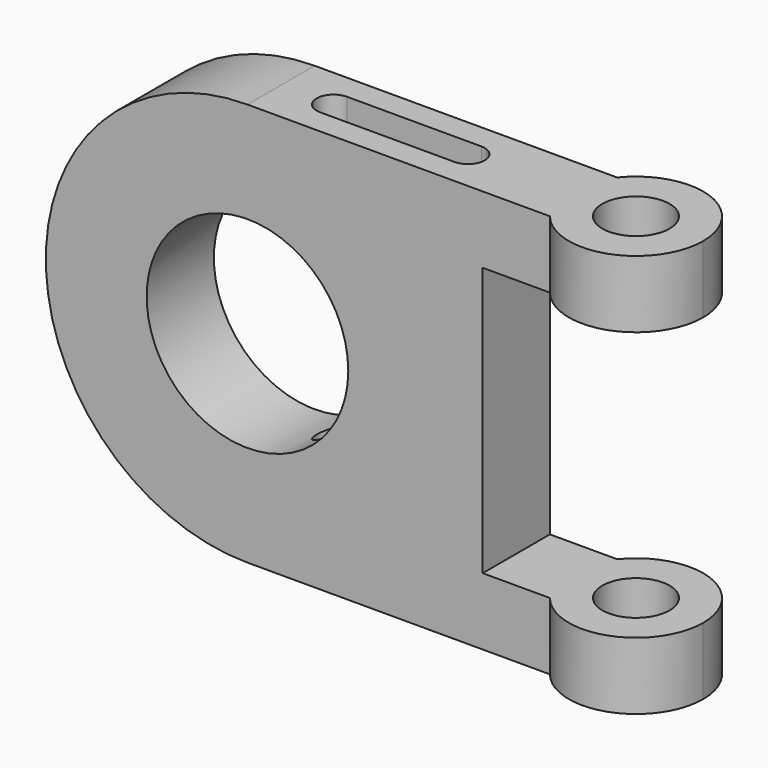
from build123d import *

# Parameters (mm, degrees)
F1_DEPTH  = 15.875
F2_R      = 38.1
F3_DEPTH  = 31.751
F5_DEPTH  = 25.4
F6_R      = 12.7
F7_DEPTH  = 152.401
F9_DEPTH  = 25.4
F10_R     = 12.7
F11_DEPTH = 152.401
F14_DEPTH = 152.401


with BuildPart() as f1:
    # F0 (on Front) → F1 (new body, symmetric)
    with BuildSketch(Plane.XZ):
        with BuildLine():
            Line((88.9, 76.2), (0, 76.2))
            ThreePointArc((0, 76.2), (-76.2, 0), (0, -76.2))
            Line((0, -76.2), (88.9, -76.2))
            Line((88.9, -76.2), (88.9, 76.2))
        make_face()
    extrude(amount=F1_DEPTH, both=True)

    # F2 (on face) → F3 (cut, through all)
    with BuildSketch(Plane.XZ.offset(15.875)):
        Circle(F2_R)
    extrude(amount=-F3_DEPTH, mode=Mode.SUBTRACT)

    # F4 (on face) → F5 (join)
    with BuildSketch(Plane.XY.offset(76.2)):
        with BuildLine():
            ThreePointArc((114.3, -15.875), (142.540126, -23.966517), (159.527869, 0))
            ThreePointArc((159.527869, 0), (142.540126, 23.966517), (114.3, 15.875))
            ThreePointArc((114.3, 15.875), (108.727869, 0), (114.3, -15.875))
        make_face()
        with BuildLine():
            Line((114.3, 15.875), (88.9, 15.875))
            Line((88.9, 15.875), (88.9, -15.875))
            Line((88.9, -15.875), (114.3, -15.875))
            ThreePointArc((114.3, -15.875), (108.727869, 0), (114.3, 15.875))
        make_face()
    extrude(amount=-F5_DEPTH)

    # F6 (on face) → F7 (cut, through all)
    with BuildSketch(Plane(origin=(0, 0, -76.2), x_dir=(1, 0, 0), z_dir=(0, 0, -1))):
        with Locations((134.127869, 0)):
            Circle(F6_R)
    extrude(amount=-F7_DEPTH, mode=Mode.SUBTRACT)

    # F8 (on face) → F9 (join)
    with BuildSketch(Plane(origin=(0, 0, -76.2), x_dir=(1, 0, 0), z_dir=(0, 0, -1))):
        with BuildLine():
            Line((114.3, 15.875), (88.9, 15.875))
            Line((88.9, 15.875), (88.9, -15.875))
            Line((88.9, -15.875), (114.3, -15.875))
            ThreePointArc((114.3, -15.875), (108.727869, 0), (114.3, 15.875))
        make_face()
        with BuildLine():
            ThreePointArc((159.527869, 0), (142.540126, 23.966517), (114.3, 15.875))
            ThreePointArc((114.3, 15.875), (108.727869, 0), (114.3, -15.875))
            ThreePointArc((114.3, -15.875), (142.540126, -23.966517), (159.527869, 0))
        make_face()
    extrude(amount=-F9_DEPTH)

    # F10 (on face) → F11 (cut, through all)
    with BuildSketch(Plane.XY.offset(76.2)):
        with Locations((134.127869, 0)):
            Circle(F10_R)
    extrude(amount=-F11_DEPTH, mode=Mode.SUBTRACT)

    # F13 (on face) → F14 (cut, through all)
    with BuildSketch(Plane.XY.offset(76.2)):
        with BuildLine():
            Line((70.627869, 6.35), (19.827869, 6.35))
            ThreePointArc((19.827869, 6.35), (13.477869, 0), (19.827869, -6.35))
            Line((19.827869, -6.35), (70.627869, -6.35))
            ThreePointArc((70.627869, -6.35), (76.977869, 0), (70.627869, 6.35))
        make_face()
    extrude(amount=-F14_DEPTH, mode=Mode.SUBTRACT)


solid = f1.part
